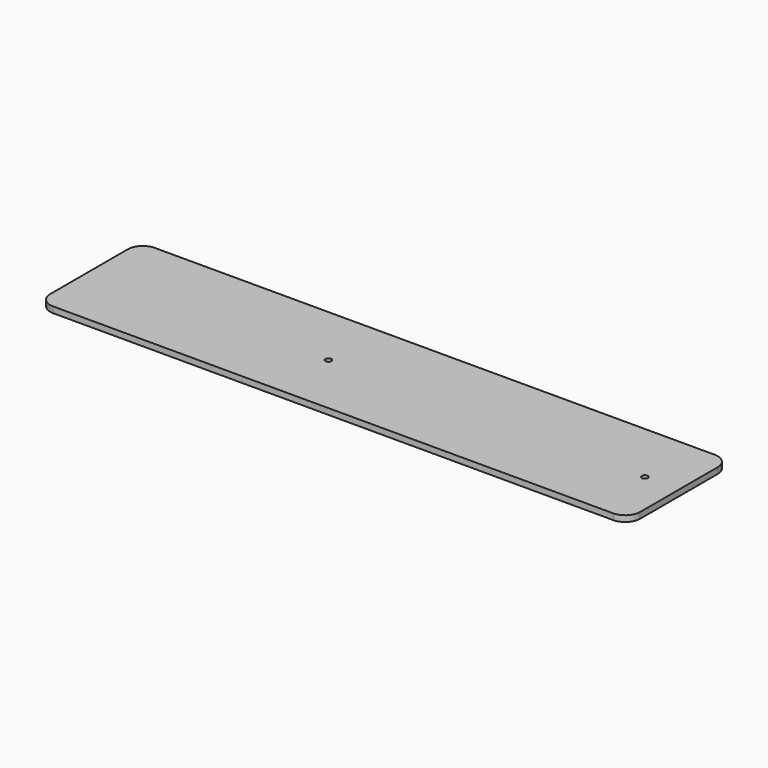
from build123d import *

# Parameters (mm, degrees)
F0_W     = 197.16585
F0_H     = 42.4
F0_R     = 1
F1_DEPTH = 2
F2_R     = 5


with BuildPart() as f1:
    # F0 (on Top) → F1 (new body)
    with BuildSketch(Plane.XY):
        with Locations((-66.582925, 0)):
            Rectangle(F0_W, F0_H)
        with Locations((-85.16585, 0)):
            Circle(F0_R, mode=Mode.SUBTRACT)
        with Locations((20.6, 0)):
            Circle(F0_R, mode=Mode.SUBTRACT)
        with Locations((-66.582925, 0)):
            Rectangle(F0_W, F0_H)
        with Locations((-85.16585, 0)):
            Circle(F0_R, mode=Mode.SUBTRACT)
        with Locations((20.6, 0)):
            Circle(F0_R, mode=Mode.SUBTRACT)
    extrude(amount=F1_DEPTH)

    # F2
    f2_edges = [f1.edges().sort_by_distance(p)[0] for p in [
        (32, -21.2, 1),
        (32, 21.2, 1),
        (-165.16585, 21.2, 1),
        (-165.16585, -21.2, 1),
    ]]
    fillet(f2_edges, radius=F2_R)


solid = f1.part
